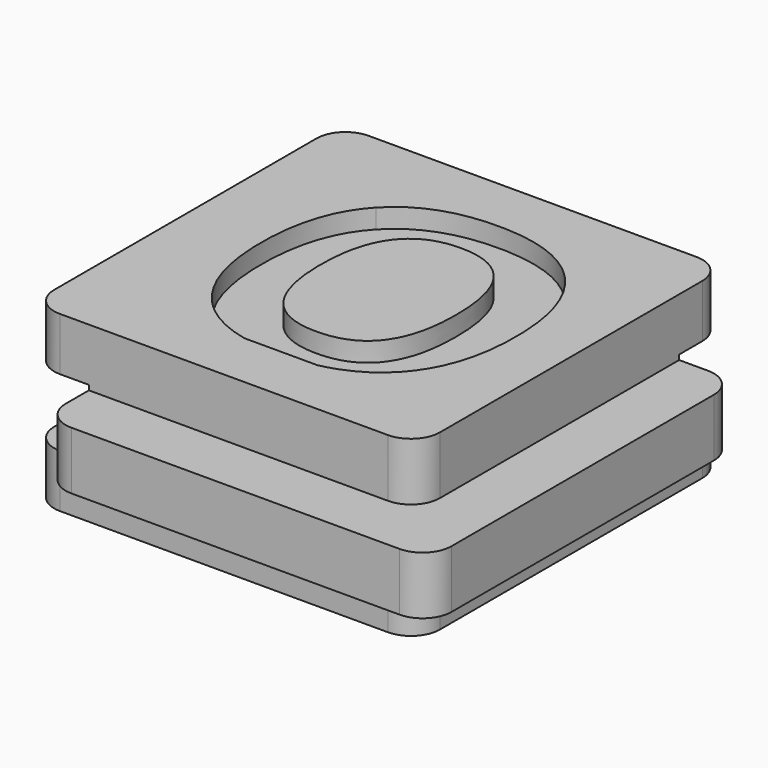
from build123d import *

# Parameters (mm, degrees)
F0_W     = 14
F0_H     = 3
F0_W_2   = 3
F1_DEPTH = 20
F2_DEPTH = 3
F3_W     = 3
F3_H     = 3
F4_DEPTH = 100
F5_W     = 3
F5_H     = 3.5
F6_DEPTH = 100
F7_R     = 1.5
F9_DEPTH = 1


with BuildPart() as f1:
    # F0 (on Front) → F1 (new body)
    with BuildSketch(Plane.XZ):
        Polygon((10, 1.5), (10, 4.5), (-10, 4.5), (-10, 1.5), (-7, 1.5), (7, 1.5), align=None)
        Rectangle(F0_W, F0_H)
        with Locations((11.5, 0)):
            Rectangle(F0_W_2, F0_H)
        with Locations((8.5, 0)):
            Rectangle(F0_W_2, F0_H)
        with Locations((-8.5, 0)):
            Rectangle(F0_W_2, F0_H)
        Polygon((10, -4.5), (10, -1.5), (7, -1.5), (-7, -1.5), (-10, -1.5), (-10, -4.5), align=None)
    extrude(amount=-F1_DEPTH)

    # F0 (on Front) → F2 (join)
    with BuildSketch(Plane.XZ):
        with Locations((-8.5, 0)):
            Rectangle(F0_W_2, F0_H)
        Rectangle(F0_W, F0_H)
        with Locations((8.5, 0)):
            Rectangle(F0_W_2, F0_H)
        with Locations((11.5, 0)):
            Rectangle(F0_W_2, F0_H)
    extrude(amount=F2_DEPTH)

    # F3 (on face) → F4 (cut)
    with BuildSketch(Plane.YZ.offset(13)):
        Polygon((23, -1.75), (23, 1.75), (17, 1.75), (17, 1.5), (20, 1.5), (20, -1.5), (17, -1.5), (17, -1.75), align=None)
        with Locations((18.5, 0)):
            Rectangle(F3_W, F3_H)
    extrude(amount=-F4_DEPTH, mode=Mode.SUBTRACT)

    # F5 (on face) → F6 (cut)
    with BuildSketch(Plane(origin=(0, 17, 0), x_dir=(-1, 0, 0), z_dir=(0, 1, 0))):
        with Locations((11.5, 0)):
            Rectangle(F5_W, F5_H)
        with Locations((8.5, 0)):
            Rectangle(F5_W, F5_H)
    extrude(amount=-F6_DEPTH, mode=Mode.SUBTRACT)

    # F7
    f7_edges = [f1.edges().sort_by_distance(p)[0] for p in [
        (-7, -3, 0),
        (13, -3, 0),
        (10, 0, 3),
        (10, 0, -3),
        (-10, 0, -3.125),
        (-10, 0, 3.125),
        (-7, 17, 0),
        (-10, 20, 3.125),
        (-10, 20, -3.125),
        (13, 17, 0),
        (10, 20, 3.125),
        (10, 20, -3.125),
    ]]
    fillet(f7_edges, radius=F7_R)

    # F8 (on face) → F9 (cut)
    with BuildSketch(Plane.XY.offset(4.5)):
        with BuildLine():
            Line((-1.3400688011, 3), (2.4562410374, 3))
            add(Edge.make_bspline(
                [(5.4571746599, 4.6603732639), (4.2976318515, 3.403944212), (2.4562410374, 3)],
                knots=[0, 0, 0, 0.6784981919, 0.6784981919, 0.6784981919], degree=2))
            add(Edge.make_bspline(
                [(7.1661590349, 9.9605034722), (7.1661590349, 6.5121527778), (5.4571746599, 4.6603732639)],
                knots=[0, 0, 0, 1, 1, 1], degree=2))
            add(Edge.make_bspline(
                [(5.4708465349, 15.2575954861), (7.1661590349, 13.4149305556), (7.1661590349, 9.9605034722)],
                knots=[0, 0, 0, 1, 1, 1], degree=2))
            add(Edge.make_bspline(
                [(0.5763152849, 17.1002604167), (3.7755340349, 17.1002604167), (5.4708465349, 15.2575954861)],
                knots=[0, 0, 0, 1, 1, 1], degree=2))
            add(Edge.make_bspline(
                [(-4.3364451318, 15.2727864583), (-2.6229034651, 17.1002604167), (0.5763152849, 17.1002604167)],
                knots=[0, 0, 0, 1, 1, 1], degree=2))
            add(Edge.make_bspline(
                [(-6.0499867985, 9.9787326389), (-6.0499867985, 13.4453125), (-4.3364451318, 15.2727864583)],
                knots=[0, 0, 0, 1, 1, 1], degree=2))
            add(Edge.make_bspline(
                [(-4.3410024235, 4.6603732639), (-6.0499867985, 6.5121527778), (-6.0499867985, 9.9787326389)],
                knots=[0, 0, 0, 1, 1, 1], degree=2))
            add(Edge.make_bspline(
                [(-1.3400688011, 3), (-3.1814596151, 3.403944212), (-4.3410024235, 4.6603732639)],
                knots=[0.3215018081, 0.3215018081, 0.3215018081, 1, 1, 1], degree=2))
        make_face()
        with BuildLine():
            add(Edge.make_bspline(
                [(-2.9631812429, 9.9605034722), (-2.9631812429, 7.6332465278), (-2.0805857568, 6.4559461806)],
                knots=[0, 0, 0, 1, 1, 1], degree=2))
            add(Edge.make_bspline(
                [(-2.0714711735, 13.4665798611), (-2.9631812429, 12.2847222222), (-2.9631812429, 9.9605034722)],
                knots=[0, 0, 0, 1, 1, 1], degree=2))
            add(Edge.make_bspline(
                [(0.5763152849, 14.6484375), (-1.179761104, 14.6484375), (-2.0714711735, 13.4665798611)],
                knots=[0, 0, 0, 1, 1, 1], degree=2))
            add(Edge.make_bspline(
                [(4.0793534793, 9.9605034722), (4.0793534793, 14.6484375), (0.5763152849, 14.6484375)],
                knots=[0, 0, 0, 1, 1, 1], degree=2))
            add(Edge.make_bspline(
                [(0.5580861182, 5.2786458333), (4.0793534793, 5.2786458333), (4.0793534793, 9.9605034722)],
                knots=[0, 0, 0, 1, 1, 1], degree=2))
            add(Edge.make_bspline(
                [(-2.0805857568, 6.4559461806), (-1.1979902707, 5.2786458333), (0.5580861182, 5.2786458333)],
                knots=[0, 0, 0, 1, 1, 1], degree=2))
        make_face(mode=Mode.SUBTRACT)
    extrude(amount=-F9_DEPTH, mode=Mode.SUBTRACT)


solid = f1.part
